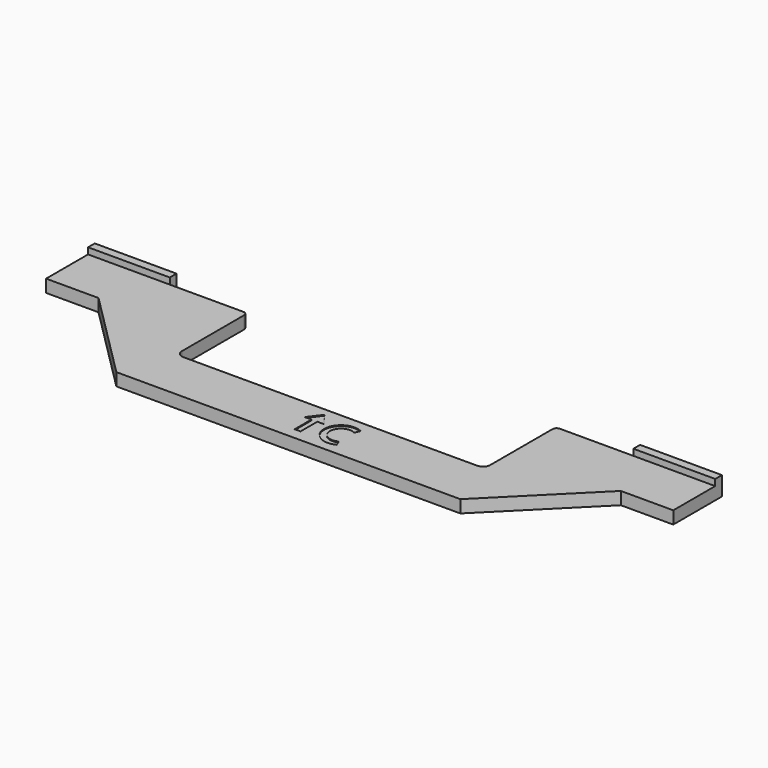
from build123d import *

# Parameters (mm, degrees)
PAD_DEPTH    = 6
SKETCH002_W  = 39
SKETCH002_H  = 4
PAD001_DEPTH = 9
POCKET_DEPTH = 0.4


with BuildPart() as part:
    # Sketch001 → Pad (new body)
    with BuildSketch(Plane.XY):
        with BuildLine():
            Line((67.5, 0), (231.5, 0))
            Line((274, 42.5), (231.5, 0))
            Line((299, 42.5), (274, 42.5))
            Line((299, 42.5), (299, 67.5))
            Line((299, 67.5), (225, 67.5))
            ThreePointArc((225, 67.5), (223.585786, 66.914214), (223, 65.5))
            Line((223, 65.5), (223, 28.5))
            ThreePointArc((219.5, 25), (221.974874, 26.025126), (223, 28.5))
            Line((219.5, 25), (79.5, 25))
            ThreePointArc((76, 28.5), (77.025126, 26.025126), (79.5, 25))
            Line((76, 28.5), (76, 65.5))
            ThreePointArc((76, 65.5), (75.414214, 66.914214), (74, 67.5))
            Line((0, 67.5), (74, 67.5))
            Line((0, 67.5), (0, 42.5))
            Line((0, 42.5), (25, 42.5))
            Line((25, 42.5), (67.5, 0))
        make_face()
    extrude(amount=PAD_DEPTH)

    # Sketch002 → Pad001 (join)
    with BuildSketch(Plane.XY):
        with Locations((19.5, 69.5)):
            Rectangle(SKETCH002_W, SKETCH002_H)
        with Locations((279.5, 69.5)):
            Rectangle(SKETCH002_W, SKETCH002_H)
    extrude(amount=PAD001_DEPTH)

    # Sketch (on Face4 of Pad001) → Pocket (cut)
    with BuildSketch(Plane.XY.offset(6)):
        Polygon((144.9, 15.5), (149.5, 21.5), (154.1, 15.5), (150.9, 15.5), (150.9, 5.5), (148.1, 5.5), (148.1, 15.5), align=None)
        with BuildLine():
            ThreePointArc((168.193989, 19.692173), (156.5, 12.596087), (168.193989, 5.5))
            Line((167.122475, 8.086863), (168.193989, 5.5))
            ThreePointArc((167.122475, 17.105311), (159.283634, 12.596087), (167.122475, 8.086863))
            Line((167.122475, 17.105311), (168.193989, 19.692173))
        make_face()
    extrude(amount=-POCKET_DEPTH, mode=Mode.SUBTRACT)


solid = part.part
